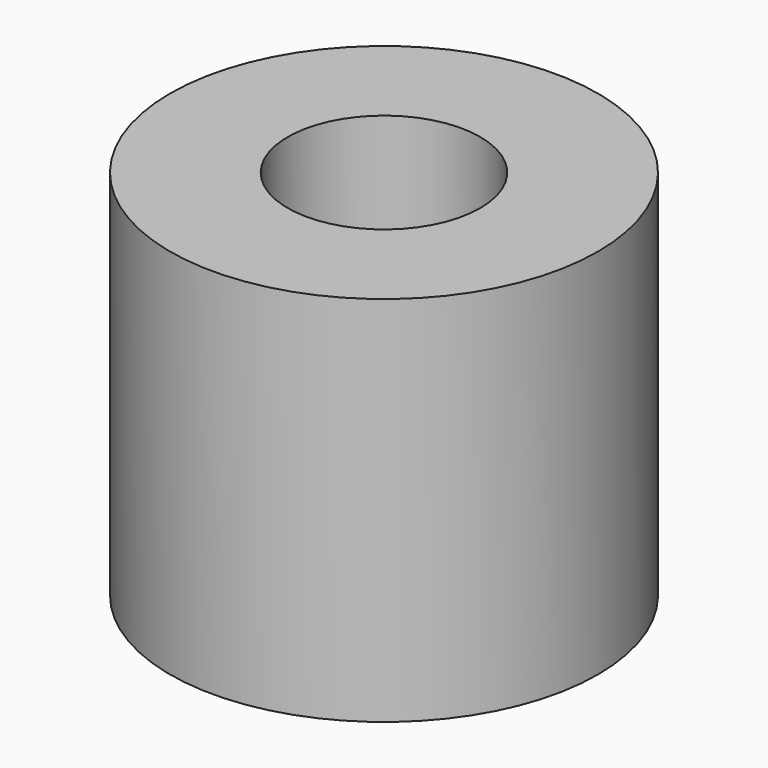
from build123d import *

# Parameters (mm, degrees)
SKETCH_R     = 5
PAD_DEPTH    = 8.7
SKETCH001_R  = 2.25
POCKET_DEPTH = 8.701


with BuildPart() as part:
    # Sketch → Pad (new body)
    with BuildSketch(Plane.XY):
        Circle(SKETCH_R)
    extrude(amount=PAD_DEPTH)

    # Sketch001 → Pocket (cut, through all)
    with BuildSketch(Plane.XY.offset(8.7)):
        Circle(SKETCH001_R)
    extrude(amount=-POCKET_DEPTH, mode=Mode.SUBTRACT)


solid = part.part
